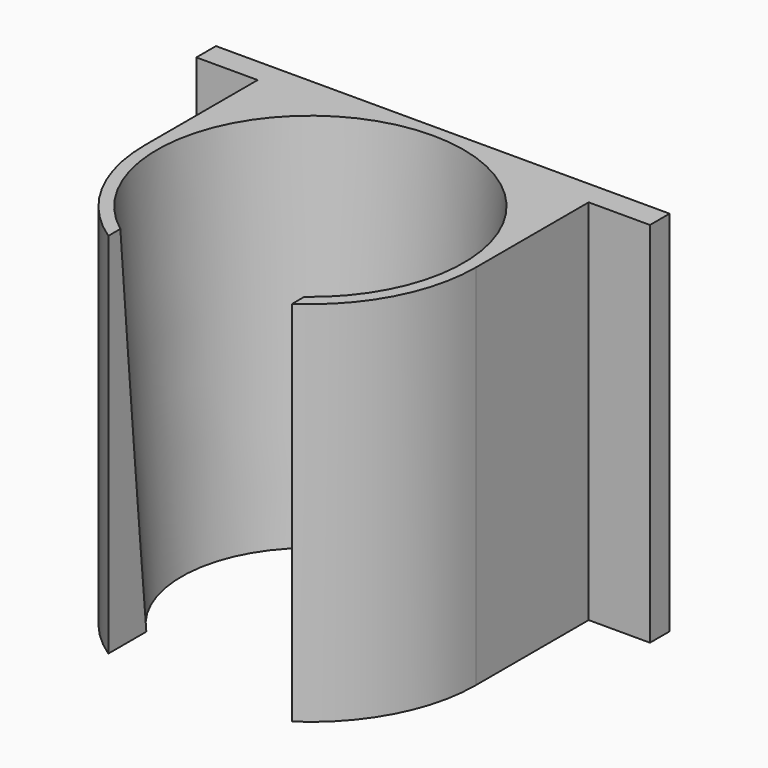
from build123d import *

# Parameters (mm, degrees)
F1_DEPTH = 30


with BuildPart() as f1:
    # F0 (on Top) → F1 (new body)
    with BuildSketch(Plane.XY):
        with BuildLine():
            ThreePointArc((-13.5, 0), (-9.545942, 9.545942), (0, 13.5))
            Line((0, 13.5), (-13.5, 13.5))
            Line((-13.5, 13.5), (-18.5, 13.5))
            Line((-18.5, 13.5), (-18.5, 11.5))
            Line((-18.5, 11.5), (-13.5, 11.5))
            Line((-13.5, 11.5), (-13.5, 0))
        make_face()
        with BuildLine():
            Line((13.5, 0), (13.5, 11.5))
            Line((13.5, 11.5), (18.5, 11.5))
            Line((18.5, 11.5), (18.5, 13.5))
            Line((18.5, 13.5), (13.5, 13.5))
            Line((13.5, 13.5), (0, 13.5))
            ThreePointArc((0, 13.5), (9.545942, 9.545942), (13.5, 0))
        make_face()
        with BuildLine():
            ThreePointArc((7.5, -11.224972), (11.905881, -6.363961), (13.5, 0))
            ThreePointArc((13.5, 0), (9.545942, 9.545942), (0, 13.5))
            ThreePointArc((0, 13.5), (-9.545942, 9.545942), (-13.5, 0))
            ThreePointArc((-13.5, 0), (-11.905881, -6.363961), (-7.5, -11.224972))
            Line((-7.5, -11.224972), (-7.5, -7.348469))
            ThreePointArc((-7.5, -7.348469), (-3.968627, 9.721111), (10.5, 0))
            ThreePointArc((10.5, 0), (9.721111, -3.968627), (7.5, -7.348469))
            Line((7.5, -7.348469), (7.5, -11.224972))
        make_face()
    extrude(amount=F1_DEPTH)

    # F2 (on Front) → F3 (revolve, cut)
    with BuildSketch(Plane.XZ):
        Polygon((0, 0), (10.5, 0), (12.5, 30), (0, 30), align=None)
    revolve(axis=Axis((0, 0, 15), (0, 0, 1)), mode=Mode.SUBTRACT)


solid = f1.part
